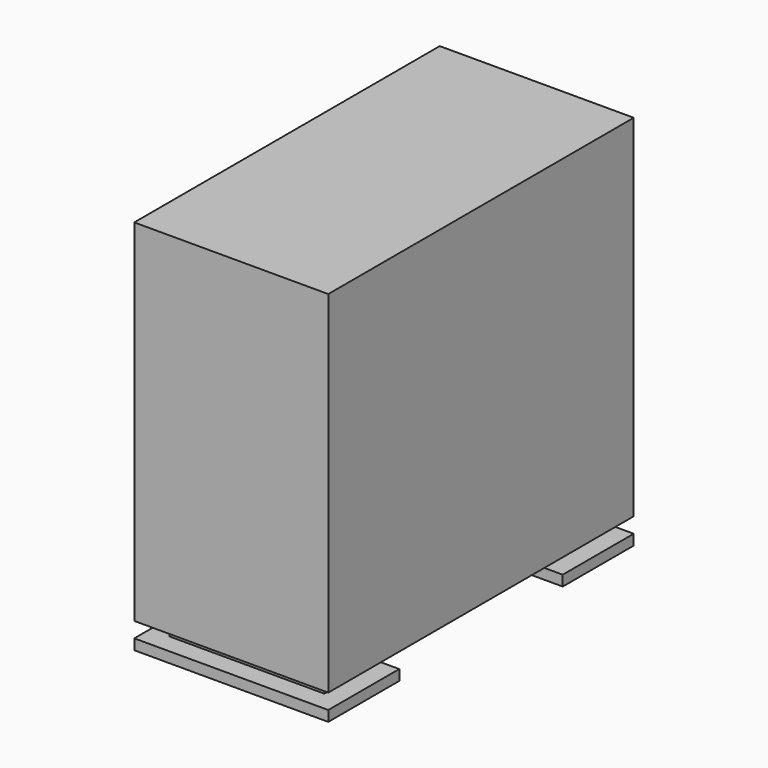
from build123d import *

# Parameters (mm, degrees)
F0_W     = 188
F0_H     = 365
F1_DEPTH = 370
F2_W     = 198
F2_H     = 25
F3_DEPTH = 188.001
F4_W     = 19.05
F4_H     = 14.84
F5_DEPTH = 370.001
F6_W     = 19.05
F6_H     = 14.84
F7_DEPTH = 188.001


with BuildPart() as f1:
    # F0 (on Front) → F1 (new body)
    with BuildSketch(Plane.XZ):
        with Locations((94, 182.5)):
            Rectangle(F0_W, F0_H)
    extrude(amount=-F1_DEPTH)

    # F2 (on face) → F3 (cut, through all)
    with BuildSketch(Plane(origin=(0, 0, 0), x_dir=(0, -1, 0), z_dir=(-1, 0, 0))):
        with Locations((-185, 12.5)):
            Rectangle(F2_W, F2_H)
    extrude(amount=-F3_DEPTH, mode=Mode.SUBTRACT)

    # F4 (on face) → F5 (cut, through all)
    with BuildSketch(Plane.XZ):
        with Locations((9.525, 17.58)):
            Rectangle(F4_W, F4_H)
        with Locations((178.475, 17.58)):
            Rectangle(F4_W, F4_H)
    extrude(amount=-F5_DEPTH, mode=Mode.SUBTRACT)

    # F6 (on face) → F7 (cut, through all)
    with BuildSketch(Plane(origin=(0, 0, 0), x_dir=(0, -1, 0), z_dir=(-1, 0, 0))):
        with Locations((-360.475, 17.58)):
            Rectangle(F6_W, F6_H)
        with Locations((-9.525, 17.58)):
            Rectangle(F6_W, F6_H)
    extrude(amount=-F7_DEPTH, mode=Mode.SUBTRACT)


solid = f1.part
